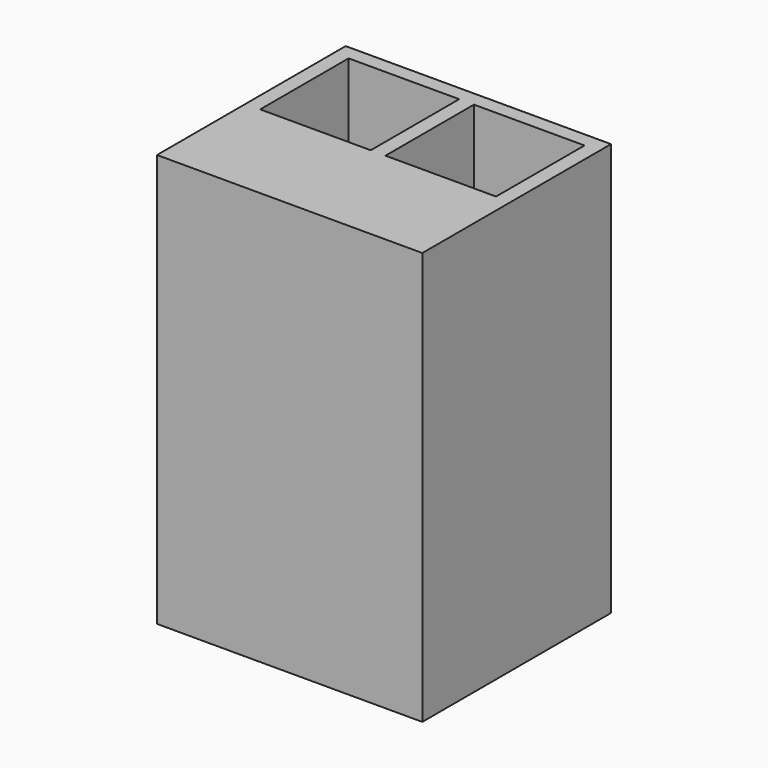
from build123d import *

# Parameters (mm, degrees)
F0_W     = 57.15
F0_H     = 88.9
F1_DEPTH = 50.8
F2_W     = 23.8125
F2_H     = 23.8125
F3_DEPTH = 85.725
F5_W     = 23.8125
F5_H     = 23.8125
F6_DEPTH = 85.725


with BuildPart() as f1:
    # F0 (on Front) → F1 (new body)
    with BuildSketch(Plane.XZ):
        with Locations((-11.298306, 27.606365)):
            Rectangle(F0_W, F0_H)
    extrude(amount=F1_DEPTH)

    # F2 (on face) → F3 (cut)
    with BuildSketch(Plane.XY.offset(72.056365)):
        with Locations((-24.792056, -15.08125)):
            Rectangle(F2_W, F2_H)
    extrude(amount=-F3_DEPTH, mode=Mode.SUBTRACT)

    # F5 (on face) → F6 (cut)
    with BuildSketch(Plane.XY.offset(72.056365)):
        with Locations((2.195444, -15.08125)):
            Rectangle(F5_W, F5_H)
    extrude(amount=-F6_DEPTH, mode=Mode.SUBTRACT)


solid = f1.part
